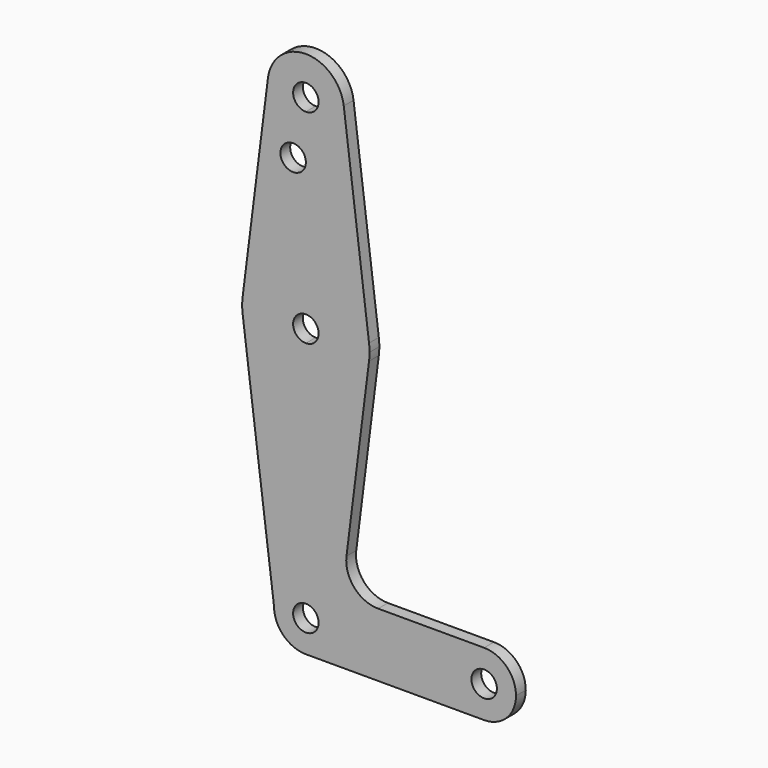
from build123d import *

# Parameters (mm, degrees)
F0_R     = 3.175
F1_DEPTH = 3.048


with BuildPart() as f1:
    # F0 (on Front) → F1 (new body)
    with BuildSketch(Plane.XZ):
        with BuildLine():
            ThreePointArc((3.175, 0), (-2.2450640303, -2.2450640303), (0, 3.175))
            Line((0, 3.175), (0, 7.9375))
            ThreePointArc((0, 7.9375), (-5.6126600757, 5.6126600757), (-7.9375, 0))
            ThreePointArc((-7.9375, 0), (-5.6126600757, -5.6126600757), (0, -7.9375))
            ThreePointArc((0, -7.9375), (5.6126600757, -5.6126600757), (7.9375, 0))
            Line((7.9375, 0), (3.175, 0))
        make_face()
        with BuildLine():
            ThreePointArc((-7.9375, 0), (-5.6126600757, 5.6126600757), (0, 7.9375))
            Line((0, 7.9375), (0, 47.625))
            ThreePointArc((0, 47.625), (-10.4943466753, 51.5884798259), (-15.7484878283, 61.4998109785))
            Line((-15.7484878283, 61.4998109785), (-7.9375, 0))
        make_face()
        with BuildLine():
            Line((0, 47.625), (0, 7.9375))
            ThreePointArc((0, 7.9375), (5.6126600757, 5.6126600757), (7.9375, 0))
            Line((7.9375, 0), (36.5125, 0))
            ThreePointArc((36.5125, 0), (38.8373399243, 5.6126600757), (44.45, 7.9375))
            Line((44.45, 7.9375), (18.0149584735, 7.9375))
            ThreePointArc((18.0149584735, 7.9375), (12.0523084735, 10.6291369817), (10.127113946, 16.881475))
            Line((10.127113946, 16.881475), (15.7504882737, 61.515625))
            ThreePointArc((15.7504882737, 61.515625), (10.5003255158, 51.59375), (0, 47.625))
        make_face()
        with BuildLine():
            Line((36.5125, 0), (7.9375, 0))
            ThreePointArc((7.9375, 0), (5.6126600757, -5.6126600757), (0, -7.9375))
            Line((0, -7.9375), (44.45, -7.9375))
            ThreePointArc((44.45, -7.9375), (38.8373399243, -5.6126600757), (36.5125, 0))
        make_face()
        with BuildLine():
            ThreePointArc((-15.7484878283, 61.4998109785), (-10.4943466753, 51.5884798259), (0, 47.625))
            Line((0, 47.625), (0, 60.325))
            ThreePointArc((0, 60.325), (-3.175, 63.5), (0, 66.675))
            Line((0, 66.675), (0, 79.375))
            ThreePointArc((0, 79.375), (-10.5003255158, 75.40625), (-15.7504882737, 65.484375))
            ThreePointArc((-15.7504882737, 65.484375), (-15.8749979993, 63.4920299772), (-15.7484878283, 61.4998109785))
        make_face()
        with BuildLine():
            Line((0, 60.325), (0, 47.625))
            ThreePointArc((0, 47.625), (10.5003255158, 51.59375), (15.7504882737, 61.515625))
            ThreePointArc((15.7504882737, 61.515625), (15.8438414904, 62.5058612634), (15.875, 63.5))
            ThreePointArc((15.875, 63.5), (15.8438414904, 64.4941387366), (15.7504882737, 65.484375))
            ThreePointArc((15.7504882737, 65.484375), (10.5003255158, 75.40625), (0, 79.375))
            Line((0, 79.375), (0, 66.675))
            ThreePointArc((0, 66.675), (2.2450640303, 65.7450640303), (3.175, 63.5))
            ThreePointArc((3.175, 63.5), (2.2450640303, 61.2549359697), (0, 60.325))
        make_face()
        with BuildLine():
            ThreePointArc((44.45, 7.9375), (38.8373399243, 5.6126600757), (36.5125, 0))
            ThreePointArc((36.5125, 0), (38.8373399243, -5.6126600757), (44.45, -7.9375))
            ThreePointArc((44.45, -7.9375), (50.0626600757, -5.6126600757), (52.3875, 0))
            ThreePointArc((52.3875, 0), (50.0626600757, 5.6126600757), (44.45, 7.9375))
        make_face()
        with BuildLine():
            ThreePointArc((47.625, 0), (44.45, -3.175), (41.275, 0))
            ThreePointArc((41.275, 0), (44.45, 3.175), (47.625, 0))
        make_face(mode=Mode.SUBTRACT)
        with BuildLine():
            Line((-9.4502929642, 115.490625), (-15.7504882737, 65.484375))
            ThreePointArc((-15.7504882737, 65.484375), (-10.5003255158, 75.40625), (0, 79.375))
            Line((0, 79.375), (0, 100.0252))
            Line((0, 100.0252), (0, 104.775))
            ThreePointArc((0, 104.775), (-7.14375, 107.9998046905), (-9.4502929642, 115.490625))
        make_face()
        with Locations((-3.175, 100.0252)):
            Circle(F0_R, mode=Mode.SUBTRACT)
        with BuildLine():
            Line((0, 100.0252), (0, 79.375))
            ThreePointArc((0, 79.375), (10.5003255158, 75.40625), (15.7504882737, 65.484375))
            Line((15.7504882737, 65.484375), (9.4502929642, 115.490625))
            ThreePointArc((9.4502929642, 115.490625), (9.5063048942, 114.896483242), (9.525, 114.3))
            ThreePointArc((9.525, 114.3), (6.7351920908, 107.5648079092), (0, 104.775))
            Line((0, 104.775), (0, 100.0252))
        make_face()
        with BuildLine():
            ThreePointArc((9.4502929642, 115.490625), (0, 123.825), (-9.4502929642, 115.490625))
            ThreePointArc((-9.4502929642, 115.490625), (-7.14375, 107.9998046905), (0, 104.775))
            ThreePointArc((0, 104.775), (6.7351920908, 107.5648079092), (9.525, 114.3))
            ThreePointArc((9.525, 114.3), (9.5063048942, 114.896483242), (9.4502929642, 115.490625))
        make_face()
        with BuildLine():
            ThreePointArc((3.175, 114.3), (2.2450640303, 112.0549359697), (0, 111.125))
            ThreePointArc((0, 111.125), (-2.2450640303, 116.5450640303), (3.175, 114.3))
        make_face(mode=Mode.SUBTRACT)
        with BuildLine():
            Line((0, 7.9375), (0, 3.175))
            ThreePointArc((0, 3.175), (2.2450640303, 2.2450640303), (3.175, 0))
            Line((3.175, 0), (7.9375, 0))
            ThreePointArc((7.9375, 0), (5.6126600757, 5.6126600757), (0, 7.9375))
        make_face()
    extrude(amount=F1_DEPTH)


solid = f1.part
